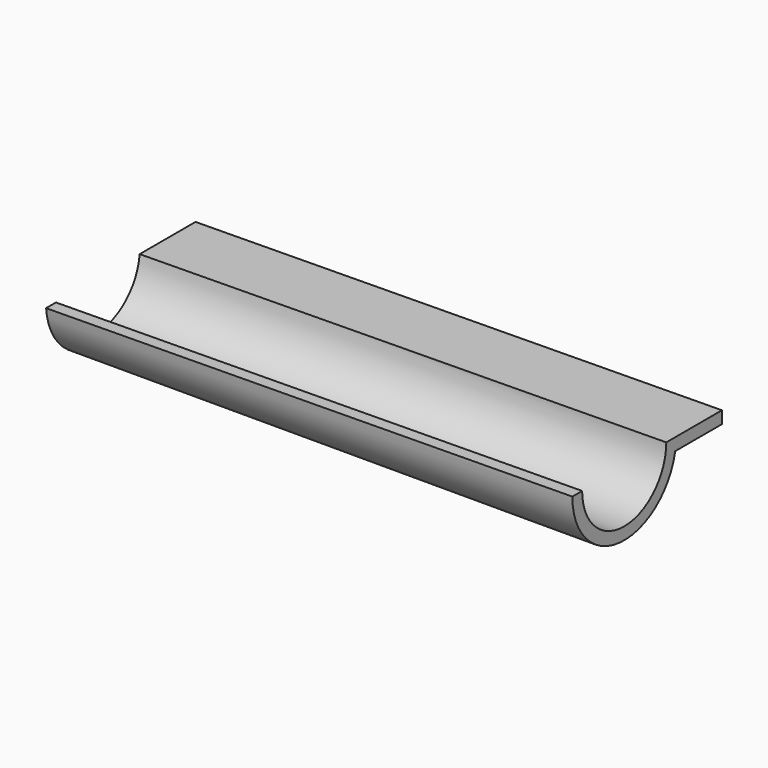
from build123d import *

# Parameters (mm, degrees)
F1_DEPTH = 149.999954
F3_DEPTH = 78.74


with BuildPart() as f1:
    # F0 (on Right) → F1 (new body)
    with BuildSketch(Plane.YZ):
        with BuildLine():
            ThreePointArc((-86.749771, 0), (-101.735771, -14.986), (-116.721771, 0))
            Line((-116.721771, 0), (-120.221764, 0))
            ThreePointArc((-120.221764, 0), (-103.493734, -18.402215), (-83.584132, -3.499993))
            Line((-83.584132, -3.499993), (-66.937771, -3.499993))
            Line((-66.937771, -3.499993), (-66.937771, 0))
            Line((-66.937771, 0), (-86.749771, 0))
        make_face()
    extrude(amount=F1_DEPTH)

    # F2 (on face) → F3 (cut)
    with BuildSketch(Plane(origin=(0, -66.937771, 0), x_dir=(-1, 0, 0), z_dir=(0, 1, 0))):
        Polygon((0, 0), (-149.999954, 0), (0, -1.531896), align=None)
    extrude(amount=-F3_DEPTH, mode=Mode.SUBTRACT)


solid = f1.part
